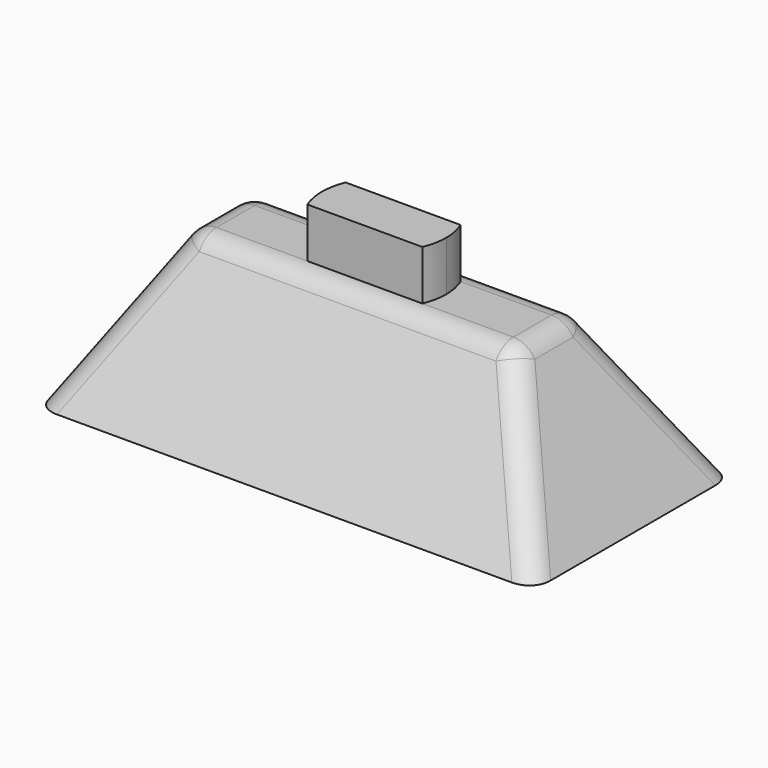
from build123d import *

# Parameters (mm, degrees)
F0_W     = 254
F0_H     = 127
F1_DEPTH = 76.2
F1_TAPER = 30
F2_R     = 12.7
F4_DEPTH = 25.4


with BuildPart() as f1:
    # F0 (on Top) → F1 (new body)
    with BuildSketch(Plane.XY):
        Rectangle(F0_W, F0_H)
    extrude(amount=F1_DEPTH, taper=F1_TAPER)

    # F2
    f2_edges = [f1.edges().sort_by_distance(p)[0] for p in [
        (83.005909, 0, 76.2),
        (0, 19.505909, 76.2),
        (-83.005909, 0, 76.2),
        (0, -19.505909, 76.2),
        (105.002955, 41.502955, 38.1),
        (105.002955, -41.502955, 38.1),
        (-105.002955, -41.502955, 38.1),
        (-105.002955, 41.502955, 38.1),
    ]]
    fillet(f2_edges, radius=F2_R)

    # F3 (on face) → F4 (join)
    with BuildSketch(Plane.XY.offset(76.2)):
        with BuildLine():
            ThreePointArc((29.3234873591, -12.173561069), (31.1374631565, -6.2065198118), (31.75, 0))
            ThreePointArc((31.75, 0), (31.1374631565, 6.2065198118), (29.3234873591, 12.173561069))
            Line((29.3234873591, 12.173561069), (-29.3234873591, 12.173561069))
            ThreePointArc((-29.3234873591, 12.173561069), (-31.75, 0), (-29.3234873591, -12.173561069))
            Line((-29.3234873591, -12.173561069), (29.3234873591, -12.173561069))
        make_face()
    extrude(amount=F4_DEPTH)


solid = f1.part
